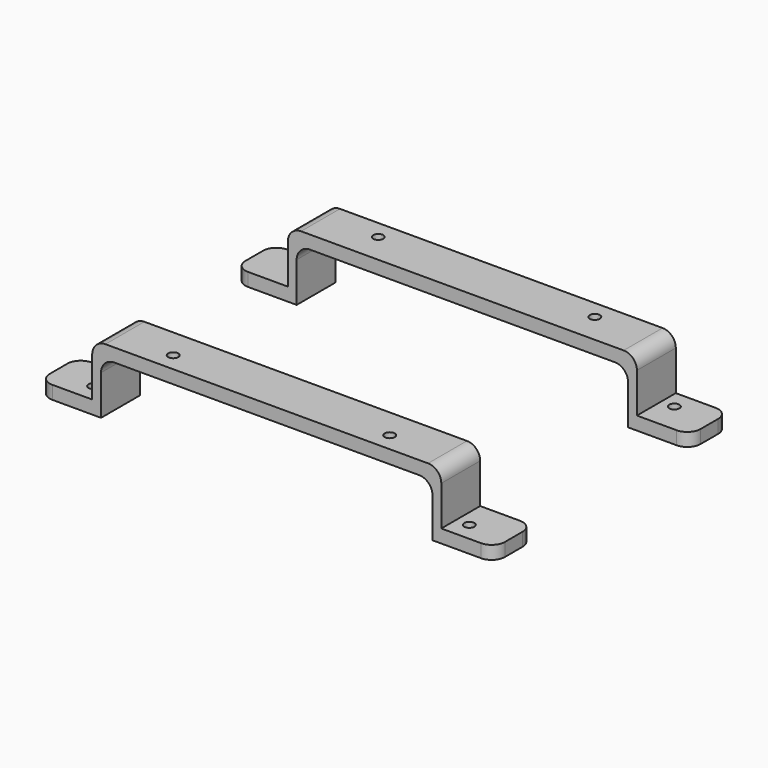
from build123d import *

# Parameters (mm, degrees)
F0_W     = 103
F0_H     = 11.0001200944
F0_R     = 1.15
F1_DEPTH = 15
F2_W     = 75
F2_H     = 24
F2_W_2   = 12
F2_H_2   = 12
F3_DEPTH = 85.001
F4_R     = 3
F4_2_R   = 3


with BuildPart() as f1:
    # F0 (on Top) → F1 (new body)
    with BuildSketch(Plane.XY):
        with Locations((0, 79.4999399528)):
            Rectangle(F0_W, F0_H)
        with Locations((-42.5030402839, 80.8298799056)):
            Circle(F0_R, mode=Mode.SUBTRACT)
        with Locations((-30.75, 79.0408372581)):
            Circle(F0_R, mode=Mode.SUBTRACT)
        with Locations((-24.5, 80.8298799056)):
            Circle(F0_R, mode=Mode.SUBTRACT)
        with Locations((30.75, 79.0408372581)):
            Circle(F0_R, mode=Mode.SUBTRACT)
        with Locations((24.5, 80.8298799056)):
            Circle(F0_R, mode=Mode.SUBTRACT)
        with Locations((42.5030402839, 80.8298799056)):
            Circle(F0_R, mode=Mode.SUBTRACT)
        with Locations((-30.75, 79.0408372581)):
            Circle(F0_R)
        with Locations((30.75, 79.0408372581)):
            Circle(F0_R)
    extrude(amount=F1_DEPTH)


with BuildPart() as f1b:
    # F0 (on Top) → F1, piece 2 (new body)
    with BuildSketch(Plane.XY):
        with Locations((0, 24.1598198584)):
            Rectangle(F0_W, F0_H)
        with Locations((-42.5030402839, 22.8298799056)):
            Circle(F0_R, mode=Mode.SUBTRACT)
        with Locations((-24.5, 22.8298799056)):
            Circle(F0_R, mode=Mode.SUBTRACT)
        with Locations((24.5, 22.8298799056)):
            Circle(F0_R, mode=Mode.SUBTRACT)
        with Locations((42.5030402839, 22.8298799056)):
            Circle(F0_R, mode=Mode.SUBTRACT)
    extrude(amount=F1_DEPTH)


with BuildPart() as f3_tool:
    # F2 (on Front) → F3 (new body, through all)
    with BuildSketch(Plane.XZ):
        Rectangle(F2_W, F2_H)
        with Locations((-45.5, 9)):
            Rectangle(F2_W_2, F2_H_2)
        with Locations((45.5, 9)):
            Rectangle(F2_W_2, F2_H_2)
    extrude(amount=-F3_DEPTH)


with BuildPart() as f1_1:
    add(f1.part)

    # F3: cut by f3_tool
    add(f3_tool.part, mode=Mode.SUBTRACT)

    # F4#2
    f4_2_edges = [f1_1.edges().sort_by_distance(p)[0] for p in [
        (-37.5, 79.49994, 12),
        (-51.5, 73.99988, 1.5),
        (-51.5, 85, 1.5),
        (-39.5, 79.49994, 15),
        (39.5, 79.49994, 15),
        (51.5, 73.99988, 1.5),
        (51.5, 85, 1.5),
        (37.5, 79.49994, 12),
    ]]
    fillet(f4_2_edges, radius=F4_2_R)


with BuildPart() as f1b_1:
    add(f1b.part)

    # F3: cut by f3_tool
    add(f3_tool.part, mode=Mode.SUBTRACT)

    # F4
    f4_edges = [f1b_1.edges().sort_by_distance(p)[0] for p in [
        (-39.5, 24.15982, 15),
        (-37.5, 24.15982, 12),
        (-51.5, 18.65976, 1.5),
        (-51.5, 29.65988, 1.5),
        (39.5, 24.15982, 15),
        (51.5, 18.65976, 1.5),
        (51.5, 29.65988, 1.5),
        (37.5, 24.15982, 12),
    ]]
    fillet(f4_edges, radius=F4_R)


solid = Compound([f1_1.part, f1b_1.part])
